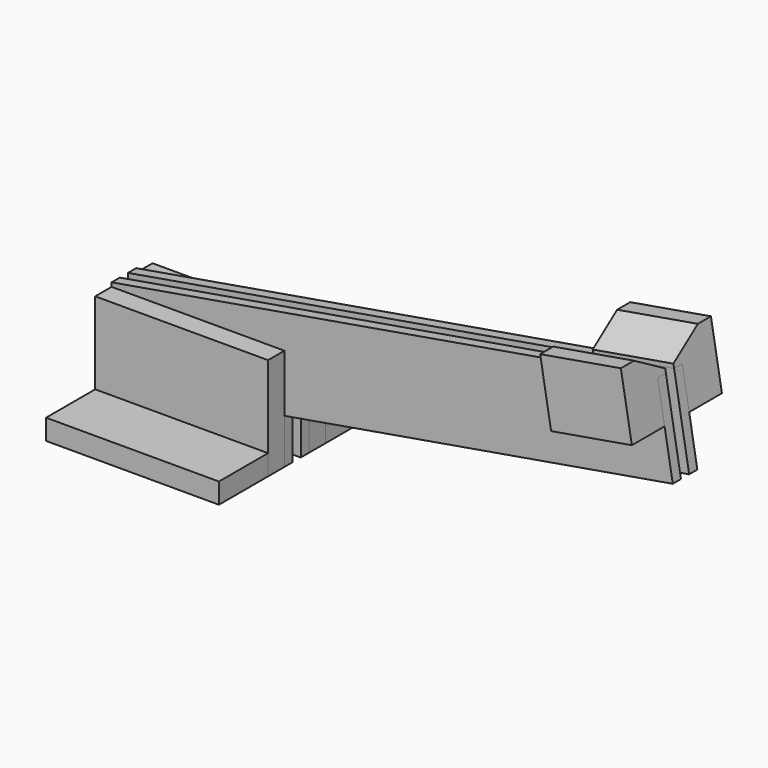
from build123d import *

# Parameters (mm, degrees)
F1_DEPTH = 3.175
F3_DEPTH = 25.4
F6_W     = 53.6130187661
F6_H     = 19.05
F6_H_2   = 6.35
F7_DEPTH = 6.35
F8_DEPTH = 31.75


with BuildPart() as f1:
    # F0 (on Front) → F1 (new body)
    with BuildSketch(Plane.XZ):
        Polygon((0, 32.9908281565), (0, 0), (53.6130187661, 0), (53.6130187661, 13.97496396), (174.096722805, 34.5840183194), (169.4124042988, 61.9692653418), align=None)
    extrude(amount=F1_DEPTH)


with BuildPart() as f3:
    # F2 (on face) → F3 (new body)
    with BuildSketch(Plane(origin=(174.8951524573, 0, 29.9162756734), x_dir=(0, 1, 0), z_dir=(0.9856839001, 0, 0.1686038227))):
        Polygon((-3.175, 32.5185281655), (0, 32.5185281655), (0, 33.7885281655), (-10.795, 40.0210243214), (-15.875, 40.0210243214), (-15.875, 19.8185281655), (-3.175, 19.8185281655), align=None)
    extrude(amount=-F3_DEPTH)


with BuildPart() as f5_1:
    # F5: instance of F3
    add(f3.part.mirror(Plane.XZ.offset(-1.5875)))


with BuildPart() as f5_2:
    # F5: instance of F1
    add(f1.part.mirror(Plane.XZ.offset(-1.5875)))


with BuildPart() as f7:
    # F6 (on Top) → F7 (new body)
    with BuildSketch(Plane.XY):
        with Locations((26.806509383, -19.05)):
            Rectangle(F6_W, F6_H)
        with Locations((26.806509383, -6.35)):
            Rectangle(F6_W, F6_H_2)
    extrude(amount=F7_DEPTH)


with BuildPart() as f7b:
    # F6 (on Top) → F7, piece 2 (new body)
    with BuildSketch(Plane.XY):
        with Locations((26.806509383, 22.225)):
            Rectangle(F6_W, F6_H)
        with Locations((26.806509383, 9.525)):
            Rectangle(F6_W, F6_H_2)
    extrude(amount=F7_DEPTH)


with BuildPart() as f8:
    # F6 (on Top) → F8 (new body)
    with BuildSketch(Plane.XY):
        with Locations((26.806509383, 9.525)):
            Rectangle(F6_W, F6_H_2)
    extrude(amount=F8_DEPTH)


with BuildPart() as f8b:
    # F6 (on Top) → F8, piece 2 (new body)
    with BuildSketch(Plane.XY):
        with Locations((26.806509383, -6.35)):
            Rectangle(F6_W, F6_H_2)
    extrude(amount=F8_DEPTH)


solid = Compound([f1.part, f3.part, f5_1.part, f5_2.part, f7.part, f7b.part, f8.part, f8b.part])
